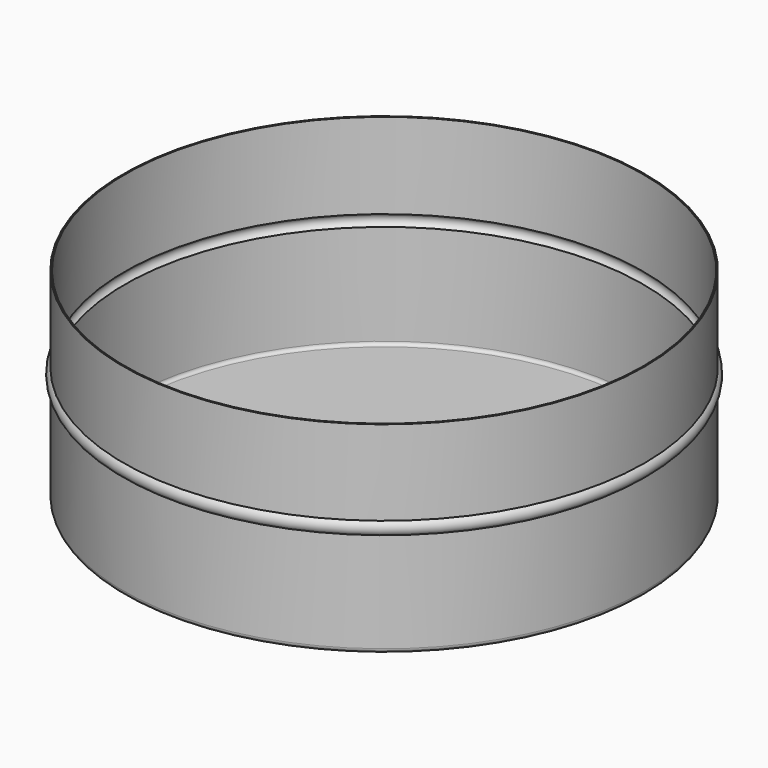
from build123d import *


with BuildPart() as f1:
    # F0 (on Front) → F1 (revolve)
    with BuildSketch(Plane.XZ):
        with BuildLine():
            Line((0, 0.254), (0, 0))
            Line((0, 0), (49.911, 0))
            ThreePointArc((49.911, 0), (50.539618, 0.260382), (50.8, 0.889))
            Line((50.8, 0.889), (50.8, 20.352157))
            ThreePointArc((50.8, 20.352157), (51.435, 21.59), (50.8, 22.827843))
            Line((50.8, 22.827843), (50.8, 39.37))
            Line((50.8, 39.37), (50.546, 39.37))
            Line((50.546, 39.37), (50.546, 22.689852))
            ThreePointArc((50.546, 22.689852), (51.181, 21.59), (50.546, 20.490148))
            Line((50.546, 20.490148), (50.546, 0.889))
            ThreePointArc((50.546, 0.889), (50.360013, 0.439987), (49.911, 0.254))
            Line((49.911, 0.254), (0, 0.254))
        make_face()
    revolve(axis=Axis((0, 0, 21.369892), (0, 0, 1)))


solid = f1.part
